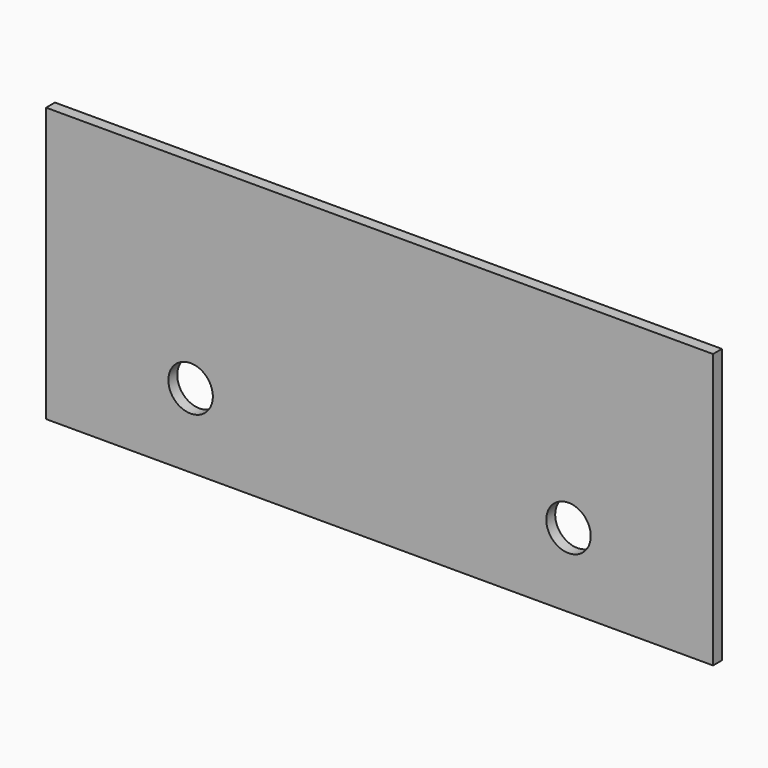
from build123d import *

# Parameters (mm, degrees)
F0_W     = 1143
F0_H     = 469.9
F1_DEPTH = 19.05
F2_R     = 38.1
F3_DEPTH = 19.051


with BuildPart() as f1:
    # F0 (on Front) → F1 (new body)
    with BuildSketch(Plane.XZ):
        Rectangle(F0_W, F0_H)
    extrude(amount=F1_DEPTH)

    # F2 (on face) → F3 (cut, through all)
    with BuildSketch(Plane(origin=(0, 0, 0), x_dir=(-1, 0, 0), z_dir=(0, 1, 0))):
        with Locations((-323.85, -107.95)):
            Circle(F2_R)
        with Locations((323.85, -107.95)):
            Circle(F2_R)
    extrude(amount=-F3_DEPTH, mode=Mode.SUBTRACT)


solid = f1.part
